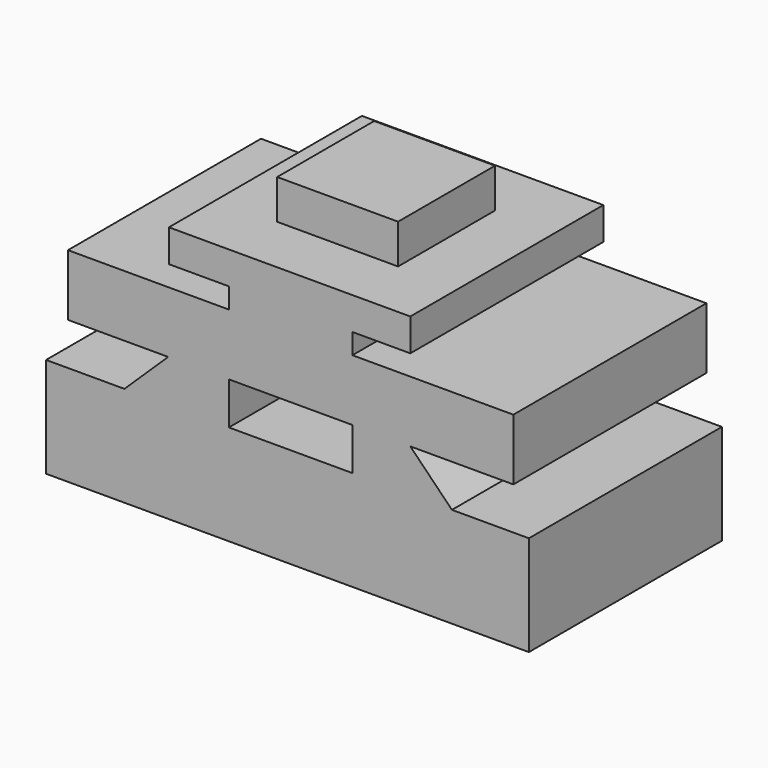
from build123d import *

# Parameters (mm, degrees)
F0_W     = 63.306741
F0_H     = 38.786522
F0_W_2   = 65.090016
F1_DEPTH = 76.2
F2_W     = 76.3532
F2_H     = 76.556332
F3_DEPTH = 101.6


with BuildPart() as f1:
    # F0 (on Front) → F1 (new body, symmetric)
    with BuildSketch(Plane.XZ):
        Polygon((-153.808624, -22.291109), (-153.808624, -85.597843), (151.133701, -85.597843), (151.133701, -22.291109), (102.539085, -22.291109), (39.678164, -22.291109), (-38.340699, -22.291109), (-104.322366, -22.291109), align=None)
        Polygon((-76.681398, 4.458224), (-104.322366, -22.291109), (-38.340699, -22.291109), (-38.340699, 4.458224), align=None)
        Polygon((39.678164, -22.291109), (102.539085, -22.291109), (76.235577, 4.458224), (39.678164, 4.458224), align=None)
        Polygon((-76.681398, 43.244746), (-76.681398, 4.458224), (-38.340699, 4.458224), (0, 4.458224), (0, 43.244746), (-38.340699, 43.244746), align=None)
        with Locations((-108.334768, 23.851485)):
            Rectangle(F0_W, F0_H)
        with Locations((108.780585, 23.851485)):
            Rectangle(F0_W_2, F0_H)
        Polygon((39.678164, 4.458224), (76.235577, 4.458224), (76.235577, 43.244746), (39.678164, 43.244746), (0, 43.244746), (0, 4.458224), align=None)
        Polygon((-38.340699, 56.173585), (-38.340699, 43.244746), (0, 43.244746), (39.678164, 43.244746), (39.678164, 56.173585), align=None)
        Polygon((-76.235577, 56.173585), (-38.340699, 56.173585), (39.678164, 56.173585), (76.235577, 56.173585), (76.235577, 76.681405), (-76.235577, 76.681405), align=None)
    extrude(amount=F1_DEPTH, both=True)

    # F2 (on Top) → F3 (join)
    with BuildSketch(Plane.XY):
        Rectangle(F2_W, F2_H)
    extrude(amount=F3_DEPTH)


solid = f1.part
